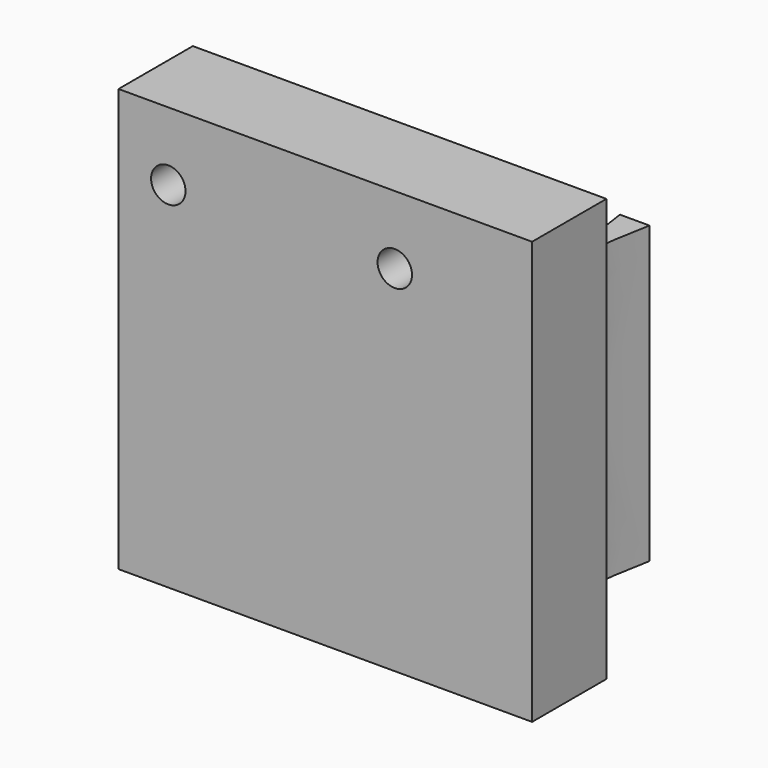
from build123d import *

# Parameters (mm, degrees)
F0_W      = 33
F0_H      = 12.9278630987
F0_R      = 1.75
F1_DEPTH  = 20
F2_R      = 8
F3_DEPTH  = 12
F4_R      = 8
F5_DEPTH  = 8
F6_R      = 6.1
F7_DEPTH  = 8
F8_R      = 8
F9_DEPTH  = 3.7
F12_DEPTH = 25
F13_DEPTH = 4
F14_DEPTH = 9
F16_DEPTH = 30


with BuildPart() as f1:
    # F0 (on Front) → F1 (new body)
    with BuildSketch(Plane.XZ):
        with Locations((0.8888252785, -0.9834368717)):
            Rectangle(F0_W, F0_H)
        with Locations((-10.5550148675, -1.4473684211)):
            Circle(F0_R, mode=Mode.SUBTRACT)
        with Locations((12.4449851325, -1.4473684211)):
            Circle(F0_R, mode=Mode.SUBTRACT)
    extrude(amount=F1_DEPTH)

    # F2 (on face) → F3 (cut)
    with BuildSketch(Plane(origin=(0, 0, -7.4473684211), x_dir=(1, 0, 0), z_dir=(0, 0, -1))):
        with Locations((0.3888252785, 10)):
            Circle(F2_R)
    extrude(amount=-F3_DEPTH, mode=Mode.SUBTRACT)

    # F4 (on face) → F5 (join)
    with BuildSketch(Plane(origin=(0, 0, -7.4473684211), x_dir=(1, 0, 0), z_dir=(0, 0, -1))):
        with Locations((0.3888252785, 10)):
            Circle(F4_R)
    extrude(amount=-F5_DEPTH)

    # F6 (on face) → F7 (cut)
    with BuildSketch(Plane(origin=(0, 0, -7.4473684211), x_dir=(1, 0, 0), z_dir=(0, 0, -1))):
        with Locations((0.3888252785, 10)):
            Circle(F6_R)
    extrude(amount=-F7_DEPTH, mode=Mode.SUBTRACT)

    # F8 (on face) → F9 (cut)
    with BuildSketch(Plane(origin=(0, 0, -7.4473684211), x_dir=(1, 0, 0), z_dir=(0, 0, -1))):
        with Locations((0.3888252785, 10)):
            Circle(F8_R)
    extrude(amount=-F9_DEPTH, mode=Mode.SUBTRACT)

    # F11 (on face) → F12 (cut)
    with BuildSketch(Plane(origin=(0, 0, -7.4473684211), x_dir=(1, 0, 0), z_dir=(0, 0, -1))):
        Polygon((18.0706698447, 0), (18.0706698447, 14.5679928681), (-16.9293301553, 14.5679928681), (-16.9293301553, -7.1319e-06), (-16.9293301553, -2.274), (18.0706698447, -2.274), align=None)
    extrude(amount=-F12_DEPTH, mode=Mode.SUBTRACT)

    # F13 (add): a face of the model
    f13_faces = [f1.faces().sort_by_distance(p)[0] for p in [
        (0.8861725966, -20, -0.9615233022),
    ]]
    extrude(f13_faces, amount=F13_DEPTH)

    # F14 (add): a face of the model
    f14_faces = [f1.faces().sort_by_distance(p)[0] for p in [
        (17.3888252785, -19.2839964341, -0.9834368717),
    ]]
    extrude(f14_faces, amount=F14_DEPTH)

    # F15 (on face) → F16 (join)
    with BuildSketch(Plane(origin=(0, 0, -7.4473684211), x_dir=(1, 0, 0), z_dir=(0, 0, -1))):
        with BuildLine():
            ThreePointArc((-12.6287143665, 10), (0.3888252785, 23.0175396451), (13.4063649236, 10))
            add(Edge.make_bspline(
                [(13.4063649236, 10), (13.7666319519, 8.2358593285), (14.5547040376, 4.3768605613), (13.8104067985, -0.6510192147), (13.4063649236, -3.3804045524)],
                knots=[0, 0, 0, 0, 0.4571498406, 1, 1, 1, 1], degree=3))
            Line((13.4063649236, -3.3804045524), (16.4063649236, -3.3804045524))
            add(Edge.make_bspline(
                [(16.4063649236, -3.3804045524), (15.566742052, 1.0450810293), (13.8926744037, 9.8687594815), (22.2320398777, 13.0048151399), (26.3888252785, 14.5679928681)],
                knots=[0, 0, 0, 0, 0.5015465609, 1, 1, 1, 1], degree=3))
            Line((26.3888252785, 14.5679928681), (26.3888252785, 24))
            Line((26.3888252785, 24), (-15.6111747215, 24))
            Line((-15.6111747215, 24), (-15.6111747215, 14.5679928681))
            Line((-15.6111747215, 14.5679928681), (-15.6111747215, -3.3804045524))
            Line((-15.6111747215, -3.3804045524), (-12.6287143665, -3.3804045524))
            add(Edge.make_bspline(
                [(-12.6287143665, 10), (-13.3626442538, 7.8917086009), (-14.8616884424, 3.585545268), (-13.3832906948, -1.0264404402), (-12.6287143665, -3.3804045524)],
                knots=[0, 0, 0, 0, 0.4895985675, 1, 1, 1, 1], degree=3))
        make_face()
    extrude(amount=F16_DEPTH)


solid = f1.part
